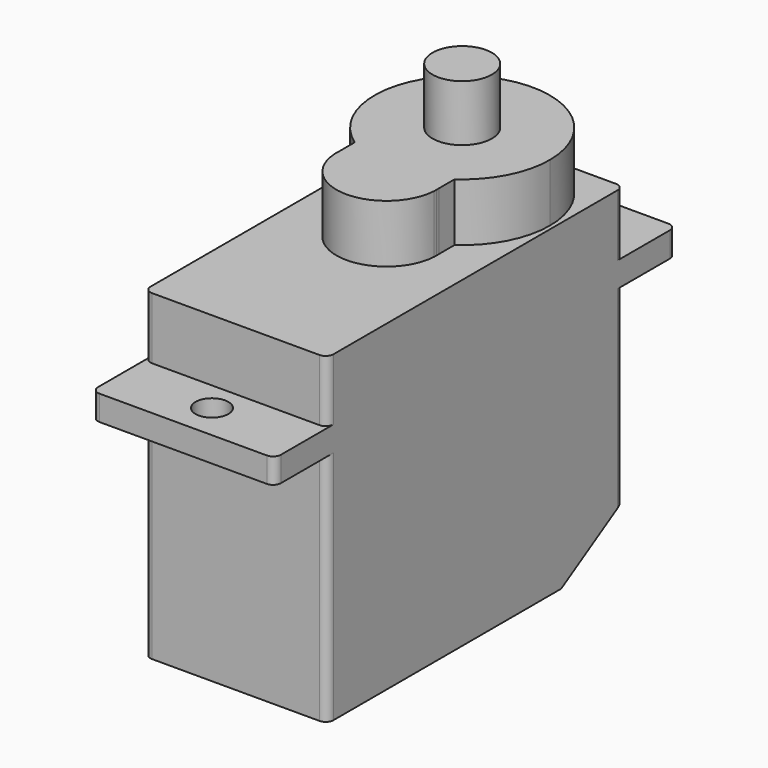
from build123d import *

# Parameters (mm, degrees)
F0_W          = 4.2
F0_H          = 1.6
F1_DEPTH      = 5.85
F1_DEPTH_BACK = 5.85
F3_DEPTH      = 3.7
F4_R          = 1.9
F5_DEPTH      = 3.6
F6_R          = 1.05
F7_DEPTH      = 10
F9_DEPTH      = 25
F9_DEPTH_BACK = 25
F10_R         = 0.5
F11_R         = 0.5
F12_DEPTH     = 5


with BuildPart() as f1:
    # F0 (on Right) → F1 (new body, two sides)
    with BuildSketch(Plane.YZ) as f1_sk:
        with Locations((-13.95, 15.85)):
            Rectangle(F0_W, F0_H)
        with Locations((13.95, 15.85)):
            Rectangle(F0_W, F0_H)
        Polygon((11.85, 20.6), (-11.85, 20.6), (-11.85, 16.65), (-11.85, 15.05), (-11.85, 0), (11.85, 0), (11.85, 15.05), (11.85, 16.65), align=None)
    extrude(amount=F1_DEPTH)
    extrude(f1_sk.sketch, amount=-F1_DEPTH_BACK)

    # F2 (on face) → F3 (join)
    with BuildSketch(Plane.XY.offset(20.6)):
        with BuildLine():
            ThreePointArc((3.1937438845, 1.65), (4.9621046822, 3.6543272311), (5.6, 6.25))
            ThreePointArc((5.6, 6.25), (-2.5956727689, 11.2121046822), (-3.1937438845, 1.65))
            ThreePointArc((-3.1937438845, 1.65), (-3.064580666, 1.5629598528), (-2.9330467827, 1.4795454545))
            ThreePointArc((-2.9330467827, 1.4795454545), (0, 3.4), (2.9330467827, 1.4795454545))
            ThreePointArc((2.9330467827, 1.4795454545), (3.064580666, 1.5629598528), (3.1937438845, 1.65))
        make_face()
        with BuildLine():
            ThreePointArc((-2.9330467827, 1.4795454545), (-3.064580666, 1.5629598528), (-3.1937438845, 1.65))
            Line((-3.1937438845, 1.65), (-3.1937438845, 0.4))
            ThreePointArc((-3.1937438845, 0.4), (-3.1105860488, 0.9511687112), (-2.9330467827, 1.4795454545))
        make_face()
        with BuildLine():
            Line((3.1937438845, 0.4), (3.1937438845, 1.65))
            ThreePointArc((3.1937438845, 1.65), (3.064580666, 1.5629598528), (2.9330467827, 1.4795454545))
            ThreePointArc((2.9330467827, 1.4795454545), (3.1105860488, 0.9511687112), (3.1937438845, 0.4))
        make_face()
        with BuildLine():
            ThreePointArc((2.9330467827, 1.4795454545), (0, 0.65), (-2.9330467827, 1.4795454545))
            ThreePointArc((-2.9330467827, 1.4795454545), (-3.1105860488, 0.9511687112), (-3.1937438845, 0.4))
            Line((-3.1937438845, 0.4), (-3.1937438845, 0))
            ThreePointArc((-3.1937438845, 0), (0, -3), (3.1937438845, 0))
            Line((3.1937438845, 0), (3.1937438845, 0.4))
            ThreePointArc((3.1937438845, 0.4), (3.1105860488, 0.9511687112), (2.9330467827, 1.4795454545))
        make_face()
        with BuildLine():
            Line((-3.1937438845, 0), (-3.1937438845, 0.4))
            ThreePointArc((-3.1937438845, 0.4), (-3.2, 0.2), (-3.1937438845, 0))
        make_face()
        with BuildLine():
            ThreePointArc((3.2, 0.2), (3.1984355887, 0.3000489118), (3.1937438845, 0.4))
            Line((3.1937438845, 0.4), (3.1937438845, 0))
            ThreePointArc((3.1937438845, 0), (3.1984355887, 0.0999510882), (3.2, 0.2))
        make_face()
        with BuildLine():
            ThreePointArc((-2.9330467827, 1.4795454545), (0, 0.65), (2.9330467827, 1.4795454545))
            ThreePointArc((2.9330467827, 1.4795454545), (0, 3.4), (-2.9330467827, 1.4795454545))
        make_face()
    extrude(amount=F3_DEPTH)

    # F4 (on face) → F5 (join)
    with BuildSketch(Plane.XY.offset(24.3)):
        with Locations((0, 6.25)):
            Circle(F4_R)
    extrude(amount=F5_DEPTH)

    # F6 (on face) → F7 (cut)
    with BuildSketch(Plane.XY.offset(16.65)):
        with Locations((0, 13.75)):
            Circle(F6_R)
        with Locations((0, -13.75)):
            Circle(F6_R)
    extrude(amount=-F7_DEPTH, mode=Mode.SUBTRACT)

    # F8 (on Right) → F9 (cut, two sides)
    with BuildSketch(Plane.YZ) as f9_sk:
        Polygon((11.85, 3), (6.85, 0), (11.85, 0), align=None)
    extrude(amount=-F9_DEPTH, mode=Mode.SUBTRACT)
    extrude(f9_sk.sketch, amount=F9_DEPTH_BACK, mode=Mode.SUBTRACT)

    # F10
    f10_edges = [f1.edges().sort_by_distance(p)[0] for p in [
        (5.85, -11.85, 18.625),
        (-5.85, -11.85, 18.625),
        (-5.85, -11.85, 7.525),
        (5.85, -11.85, 7.525),
        (5.85, 11.85, 18.625),
        (-5.85, 11.85, 18.625),
        (-5.85, 11.85, 9.025),
        (5.85, 11.85, 9.025),
        (5.85, 16.05, 15.85),
        (-5.85, 16.05, 15.85),
        (5.85, -16.05, 15.85),
        (-5.85, -16.05, 15.85),
    ]]
    fillet(f10_edges, radius=F10_R)

    # F11 (on face) → F12 (join)
    with BuildSketch(Plane(origin=(0, 11.85, 0), x_dir=(-1, 0, 0), z_dir=(0, 1, 0))):
        with Locations((0, 3.6)):
            Circle(F11_R)
        with Locations((1.025, 3.6)):
            Circle(F11_R)
        with Locations((-1.025, 3.6)):
            Circle(F11_R)
    extrude(amount=F12_DEPTH)


solid = f1.part
